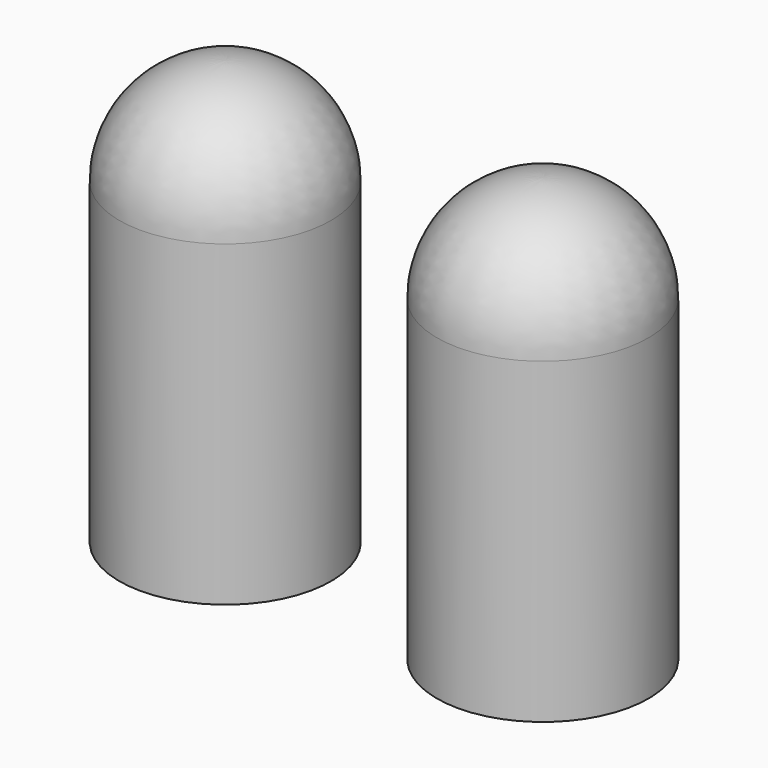
from build123d import *


with BuildPart() as f1:
    # F0 (on Right) → F1 (revolve)
    with BuildSketch(Plane.YZ):
        with BuildLine():
            Line((0, -3000), (0, 1000))
            ThreePointArc((0, 1000), (-707.106781, 707.106781), (-1000, 0))
            Line((-1000, 0), (-1000, -3000))
            Line((-1000, -3000), (0, -3000))
        make_face()
    revolve(axis=Axis((0, 0, -1000), (0, 0, 1)))


with BuildPart() as f2_1:
    # F2: copy of F1
    add(f1.part.moved(Location((3000, 0, 0))))


solid = Compound([f1.part, f2_1.part])
